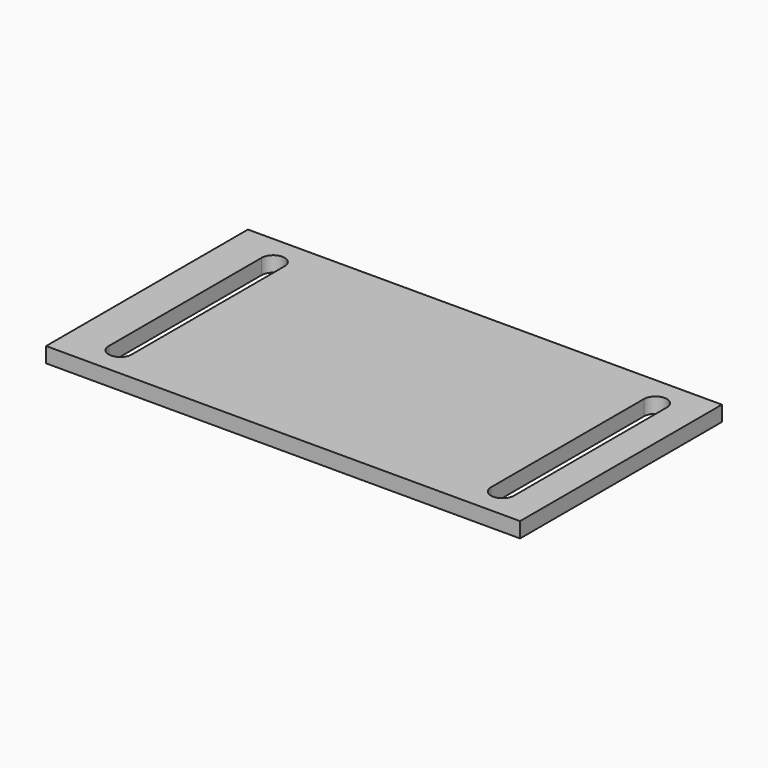
from build123d import *

# Parameters (mm, degrees)
SKETCH_W     = 62
SKETCH_H     = 33
PAD_DEPTH    = 2
POCKET_DEPTH = 2


with BuildPart() as part:
    # Sketch → Pad (new body)
    with BuildSketch(Plane.XY):
        with Locations((31, 16.5)):
            Rectangle(SKETCH_W, SKETCH_H)
    extrude(amount=PAD_DEPTH)

    # Sketch001 → Pocket (cut)
    with BuildSketch(Plane.XY.offset(2)):
        with BuildLine():
            ThreePointArc((8, 29), (6.5, 30.5), (5, 29))
            Line((5, 29), (5, 4))
            ThreePointArc((5, 4), (6.5, 2.5), (8, 4))
            Line((8, 29), (8, 4))
        make_face()
        with BuildLine():
            ThreePointArc((58, 29), (56.5, 30.5), (55, 29))
            Line((55, 29), (55, 4))
            ThreePointArc((55, 4), (56.5, 2.5), (58, 4))
            Line((58, 29), (58, 4))
        make_face()
    extrude(amount=-POCKET_DEPTH, mode=Mode.SUBTRACT)


solid = part.part
